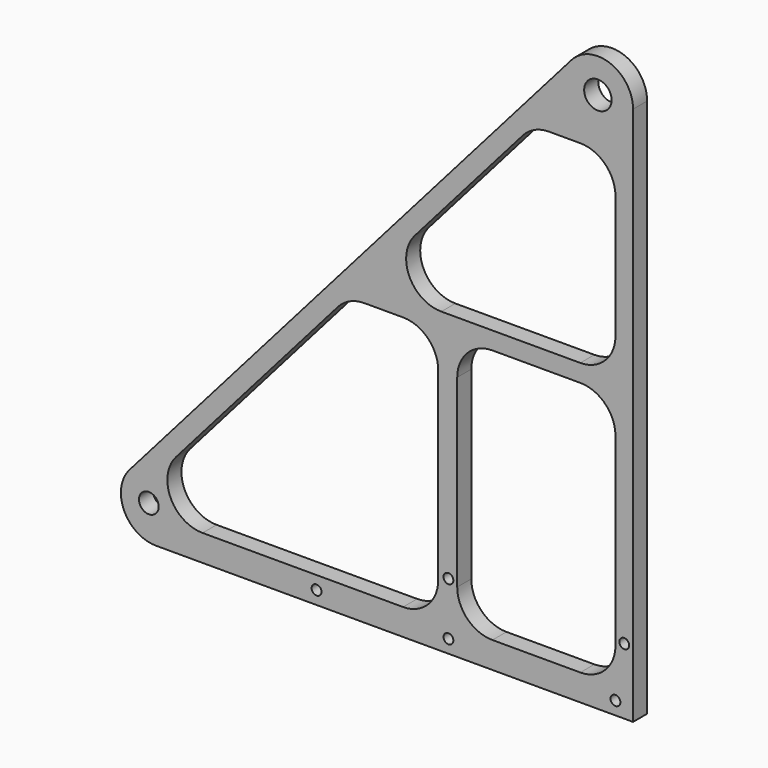
from build123d import *

# Parameters (mm, degrees)
F1_DEPTH = 12.7
F2_W     = 114.3
F2_H     = 184.15
F3_DEPTH = 12.7
F4_R     = 25.4
F5_D     = 14.224
F6_D     = 19.812
F7_D     = 7.112
F8_R     = 25.4


with BuildPart() as f1:
    # F0 (on Front) → F1 (new body)
    with BuildSketch(Plane.XZ):
        Polygon((-400.558, 0), (0, 0), (0, 457.2), align=None)
    extrude(amount=F1_DEPTH)

    # F2 (on face) → F3 (cut, through all)
    with BuildSketch(Plane.XZ.offset(12.7)):
        with Locations((-69.85, 111.125)):
            Rectangle(F2_W, F2_H)
        Polygon((-205.64757, 203.2), (-366.983431, 19.05), (-140.716, 19.05), (-140.716, 203.2), align=None)
        Polygon((-12.7, 355.6), (-72.128237, 355.6), (-194.520959, 215.9), (-12.7, 215.9), align=None)
    extrude(amount=-F3_DEPTH, mode=Mode.SUBTRACT)

    # F4
    f4_edges = [f1.edges().sort_by_distance(p)[0] for p in [
        (-205.64757, -6.35, 203.2),
        (-140.716, -6.35, 203.2),
        (-127, -6.35, 203.2),
        (-12.7, -6.35, 203.2),
        (-12.7, -6.35, 355.6),
        (-72.128237, -6.35, 355.6),
        (-366.983431, -6.35, 19.05),
        (-140.716, -6.35, 19.05),
        (-127, -6.35, 19.05),
        (-12.7, -6.35, 19.05),
        (-194.520959, -6.35, 215.9),
        (-12.7, -6.35, 215.9),
    ]]
    fillet(f4_edges, radius=F4_R)

    # F5 (through all)
    with Locations(Plane.XZ.offset(12.7)):
        with Locations((-349.758, 25.4)):
            Hole(F5_D / 2)

    # F6 (through all)
    with Locations(Plane.XZ.offset(12.7)):
        with Locations((-25.4, 390.398)):
            Hole(F6_D / 2)

    # F7 (through all)
    with Locations(Plane.XZ.offset(12.7)):
        with Locations((-228.6, 9.525), (-133.35, 9.525), (-133.35, 47.752), (-6.35, 47.752), (-12.7, 9.525)):
            Hole(F7_D / 2)

    # F8
    f8_edges = [f1.edges().sort_by_distance(p)[0] for p in [
        (0, -6.35, 457.2),
        (-400.558, -6.35, 0),
    ]]
    fillet(f8_edges, radius=F8_R)


solid = f1.part
